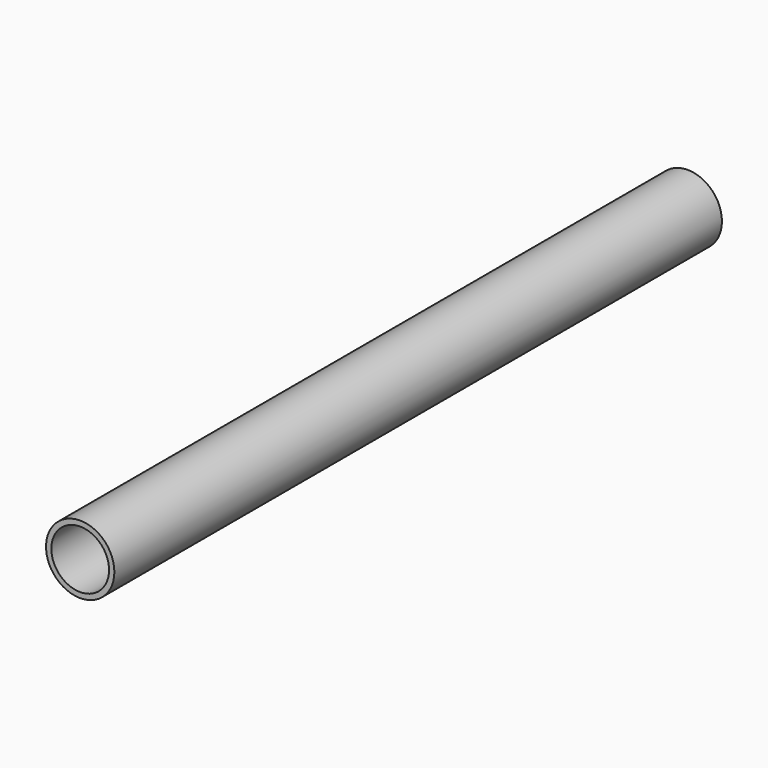
from build123d import *

# Parameters (mm, degrees)
F0_R     = 45
F0_R_2   = 38
F1_DEPTH = 1000
F3_DEPTH = 5


with BuildPart() as f1:
    # F0 (on Front) → F1 (new body)
    with BuildSketch(Plane.XZ):
        Circle(F0_R)
        Circle(F0_R_2, mode=Mode.SUBTRACT)
    extrude(amount=F1_DEPTH)


with BuildPart() as f3:
    # F2 (on Right) → F3 (new body, symmetric)
    with BuildSketch(Plane.YZ):
        Polygon((-205, 5), (-205, -5), (-195, -5), (-195, 0), (-195, 5), align=None)
    extrude(amount=F3_DEPTH, both=True)


solid = Compound([f1.part, f3.part])
